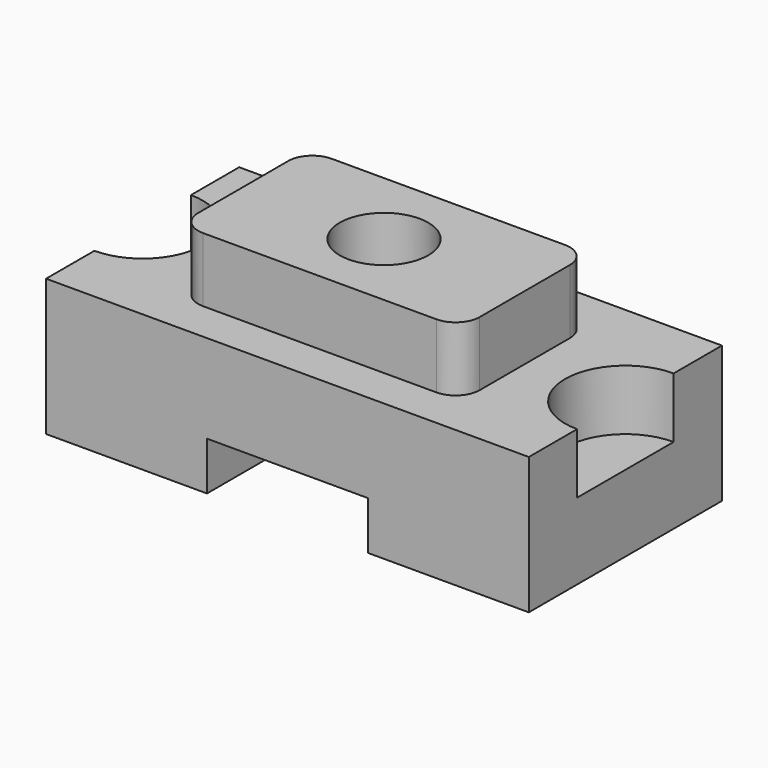
from build123d import *

# Parameters (mm, degrees)
F0_W      = 120
F0_H      = 60
F1_DEPTH  = 34
F3_DEPTH  = 15
F4_W      = 70
F4_H      = 40
F5_DEPTH  = 16
F6_R      = 11
F7_DEPTH  = 50.001
F8_R      = 6
F9_W      = 40
F9_H      = 24
F10_DEPTH = 60.001


with BuildPart() as f1:
    # F0 (on Top) → F1 (new body)
    with BuildSketch(Plane.XY):
        Rectangle(F0_W, F0_H)
    extrude(amount=F1_DEPTH)

    # F2 (on face) → F3 (cut)
    with BuildSketch(Plane.XY.offset(34)):
        with BuildLine():
            ThreePointArc((-60, -15), (-45, 0), (-60, 15))
            Line((-60, 15), (-60, -15))
        make_face()
        with BuildLine():
            Line((60, -15), (60, 15))
            ThreePointArc((60, 15), (45, 0), (60, -15))
        make_face()
    extrude(amount=-F3_DEPTH, mode=Mode.SUBTRACT)

    # F4 (on face) → F5 (join)
    with BuildSketch(Plane.XY.offset(34)):
        Rectangle(F4_W, F4_H)
    extrude(amount=F5_DEPTH)

    # F6 (on face) → F7 (cut, through all)
    with BuildSketch(Plane.XY.offset(50)):
        Circle(F6_R)
    extrude(amount=-F7_DEPTH, mode=Mode.SUBTRACT)

    # F8
    f8_edges = [f1.edges().sort_by_distance(p)[0] for p in [
        (35, 20, 42),
        (-35, 20, 42),
        (-35, -20, 42),
        (35, -20, 42),
    ]]
    fillet(f8_edges, radius=F8_R)

    # F9 (on face) → F10 (cut, through all)
    with BuildSketch(Plane(origin=(0, 30, 0), x_dir=(-1, 0, 0), z_dir=(0, 1, 0))):
        Rectangle(F9_W, F9_H)
    extrude(amount=-F10_DEPTH, mode=Mode.SUBTRACT)


solid = f1.part
